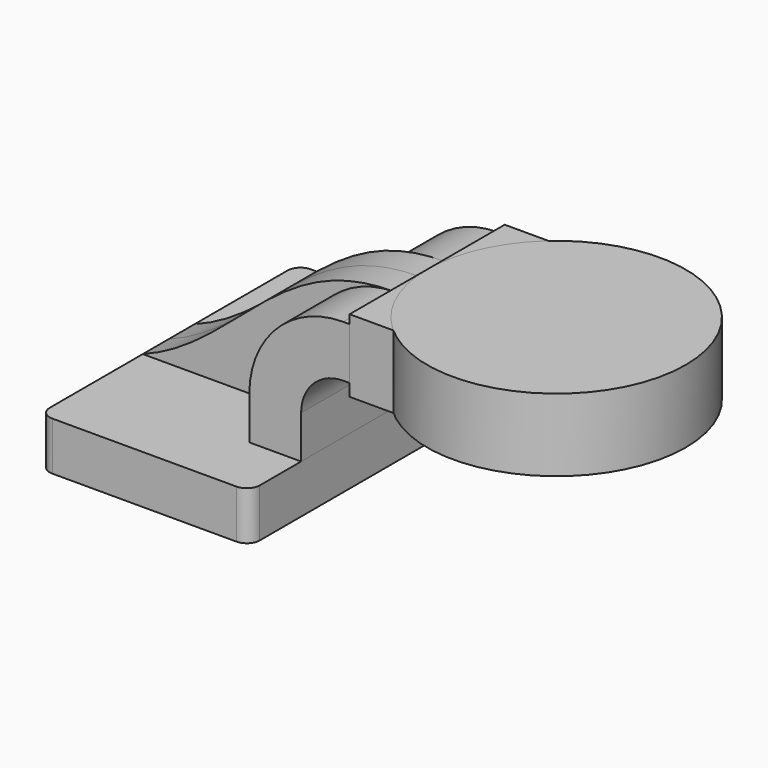
from build123d import *

# Parameters (mm, degrees)
F1_DEPTH = 12.7
F2_DEPTH = 63.5
F3_DEPTH = 38.1
F4_DEPTH = 38.1
F6_R     = 5.08


with BuildPart() as f1:
    # F0 (on Front) → F1 (new body, symmetric)
    with BuildSketch(Plane.XZ):
        with BuildLine():
            add(Edge.make_bspline(
                [(-41.275, 9.525), (-3.920519, 23.604654), (11.358957, 63.75964), (57.785, 63.22654)],
                knots=[0, 0, 0, 0, 112.679807, 112.679807, 112.679807, 112.679807], degree=3))
            Line((-41.275, 9.525), (20.92366, 9.525))
            Line((20.92366, 9.525), (20.92366, 26.3652))
            ThreePointArc((20.92366, 26.3652), (31.720097, 52.430103), (57.785, 63.22654))
        make_face()
    extrude(amount=F1_DEPTH, both=True)

    # F0 (on Front) → F2 (join, symmetric)
    with BuildSketch(Plane.XZ):
        Polygon((-41.275, -9.525), (41.275, -9.525), (41.275, 9.525), (20.92366, 9.525), (-41.275, 9.525), align=None)
    extrude(amount=F2_DEPTH, both=True)

    # F6
    f6_edges = [f1.edges().sort_by_distance(p)[0] for p in [
        (41.275, -63.5, 0),
        (-41.275, -63.5, 0),
        (-41.275, 63.5, 0),
        (41.275, 63.5, 0),
    ]]
    fillet(f6_edges, radius=F6_R)


with BuildPart() as f3:
    # F0 (on Front) → F3 (new body, symmetric)
    with BuildSketch(Plane.XZ):
        Polygon((60.325, 66.675), (60.325, 63.22654), (60.325, 42.8752), (60.325, 38.1), (111.125, 38.1), (111.125, 66.675), align=None)
    extrude(amount=F3_DEPTH, both=True)


with BuildPart() as f4:
    # F0 (on Front) → F4 (new body, symmetric)
    with BuildSketch(Plane.XZ):
        with BuildLine():
            Line((20.92366, 9.525), (41.275, 9.525))
            Line((41.275, 9.525), (41.275, 26.3652))
            ThreePointArc((41.275, 26.3652), (46.110667, 38.039533), (57.785, 42.8752))
            Line((57.785, 42.8752), (60.325, 42.8752))
            Line((60.325, 42.8752), (60.325, 63.22654))
            Line((60.325, 63.22654), (57.785, 63.22654))
            ThreePointArc((57.785, 63.22654), (31.720097, 52.430103), (20.92366, 26.3652))
            Line((20.92366, 26.3652), (20.92366, 9.525))
        make_face()
    extrude(amount=F4_DEPTH, both=True)


with BuildPart() as f5:
    # F0 (on Front) → F5 (revolve)
    with BuildSketch(Plane.XZ):
        Polygon((60.325, 66.675), (60.325, 63.22654), (60.325, 42.8752), (60.325, 38.1), (111.125, 38.1), (111.125, 66.675), align=None)
    revolve(axis=Axis((111.125, 0, 52.3875), (0, 0, -1)))


solid = Compound([f1.part, f3.part, f4.part, f5.part])
